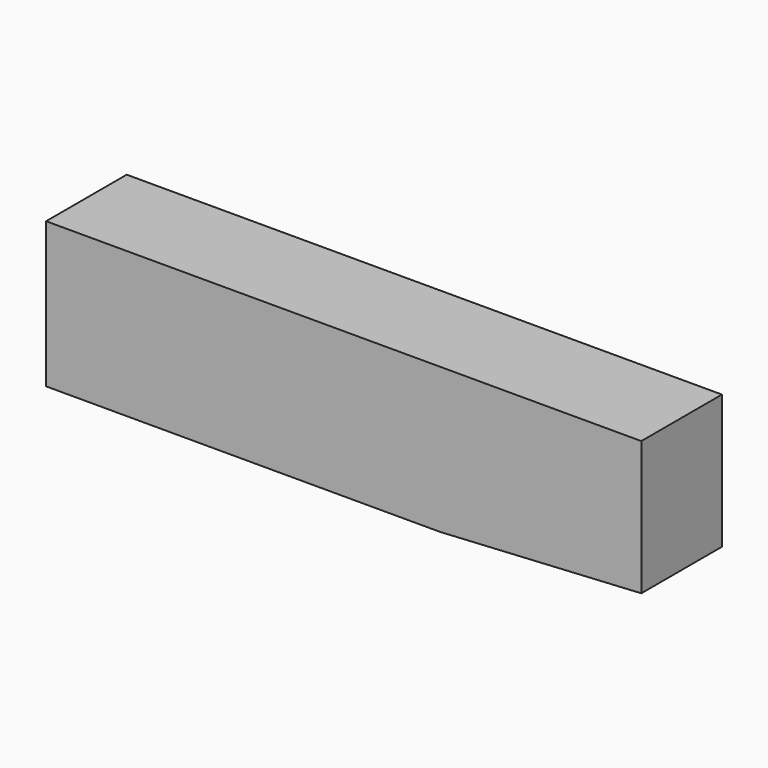
from build123d import *

# Parameters (mm, degrees)
F1_DEPTH = 25
F2_W     = 97.7762658149
F2_H     = 36.0643989407
F3_DEPTH = 25


with BuildPart() as f1:
    # F0 (on Front) → F1 (new body)
    with BuildSketch(Plane.XZ):
        Polygon((40.7133288682, 42.685598135), (-9.1569777578, 42.685598135), (-9.1569777578, 6.6211991943), (40.7133288682, 9.438729845), align=None)
    extrude(amount=F1_DEPTH)

    # F2 (on face) → F3 (join, through all)
    with BuildSketch(Plane.XZ.offset(25)):
        with Locations((-58.0451106653, 24.6533986647)):
            Rectangle(F2_W, F2_H)
    extrude(amount=-F3_DEPTH)


solid = f1.part
